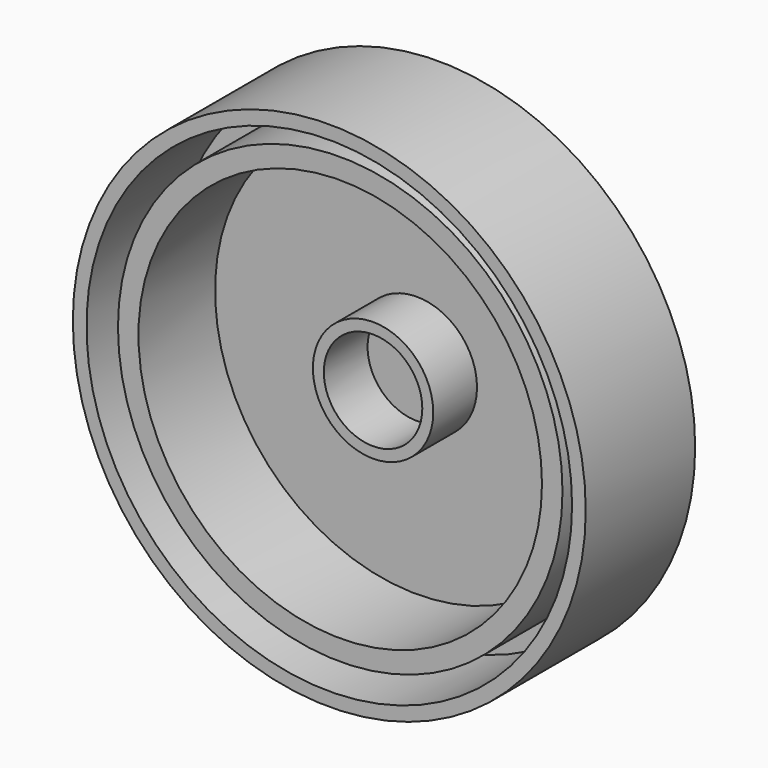
from build123d import *

# Parameters (mm, degrees)
SKETCH002_R      = 18.75
PAD001_DEPTH     = 2
SKETCH003_R      = 4.4
SKETCH003_R_2    = 3.6
PAD002_DEPTH     = 4
SKETCH003001_R   = 16.25
SKETCH003001_R_2 = 14.75
PAD003_DEPTH     = 7
SKETCH003002_R   = 18.75
SKETCH003002_R_2 = 17.75
PAD004_DEPTH     = 8


with BuildPart() as toppad:
    # Sketch002 → Pad001 (new body)
    with BuildSketch(Plane.XZ.offset(-7.8)):
        Circle(SKETCH002_R)
    extrude(amount=-PAD001_DEPTH)


with BuildPart() as centershaft:
    # Sketch003 → Pad002 (new body)
    with BuildSketch(Plane.XZ.offset(-7.8)):
        Circle(SKETCH003_R)
        Circle(SKETCH003_R_2, mode=Mode.SUBTRACT)
    extrude(amount=PAD002_DEPTH)


with BuildPart() as topguidering001:
    # Sketch003001 → Pad003 (new body)
    with BuildSketch(Plane.XZ.offset(-7.8)):
        Circle(SKETCH003001_R)
        Circle(SKETCH003001_R_2, mode=Mode.SUBTRACT)
    extrude(amount=PAD003_DEPTH)


with BuildPart() as topfusion:
    # Sketch003002 → Pad004 (new body)
    with BuildSketch(Plane.XZ.offset(-7.8)):
        Circle(SKETCH003002_R)
        Circle(SKETCH003002_R_2, mode=Mode.SUBTRACT)
    extrude(amount=PAD004_DEPTH)

    # Fusion001: union TopPad, CenterShaft, TopGuideRing001
    add(toppad.part)
    add(centershaft.part)
    add(topguidering001.part)


solid = topfusion.part
